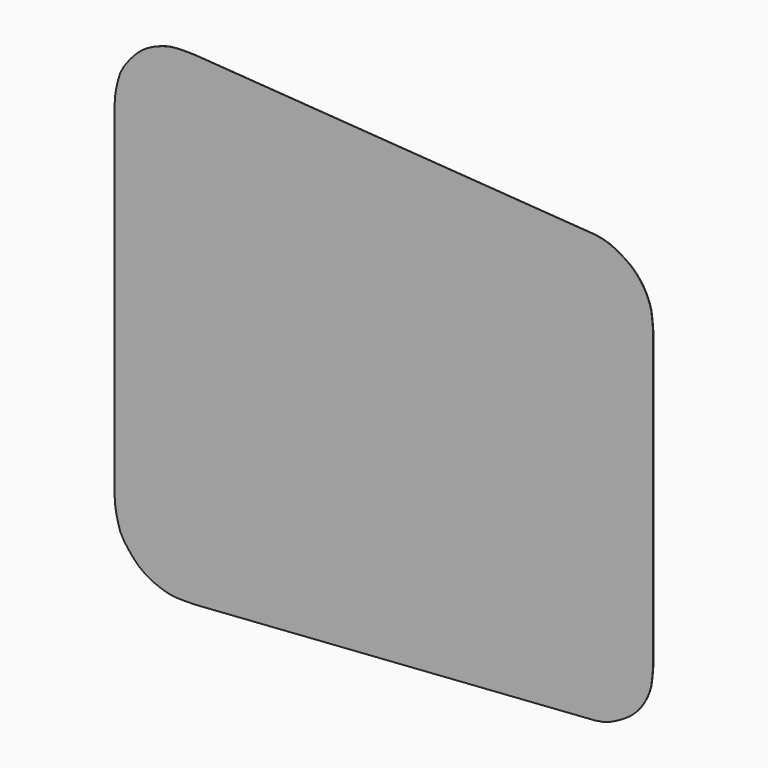
from build123d import *

# Parameters (mm, degrees)
F1_DEPTH = 4


with BuildPart() as f1:
    # F0 (on Front) → F1 (new body)
    with BuildSketch(Plane.XZ):
        Polygon((-3891.7118, 2566.1366), (-3892.4484, 1834.7182), (-3892.4484, 1334.9224), (-3892.4484, 0), (-3892.4484, -1334.897), (-3892.4484, -1834.7182), (-3891.7118, -2566.1112), (-3872.7634, -2692.7556), (-3844.0614, -2817.9014), (-3807.9172, -2929.7122), (-3754.8058, -3026.0544), (-3688.5118, -3115.3608), (-3619.9826, -3196.463), (-3545.1288, -3270.8342), (-3483.0766, -3320.2626), (-3416.4524, -3363.5188), (-3323.2598, -3411.0422), (-3225.6984, -3449.3962), (-3155.7976, -3471.418), (-3084.576, -3487.5216), (-2989.072, -3497.58), (-2892.6282, -3499.9422), (-2730.4238, -3497.9102), (3058.4394, -3091.6372), (3164.4082, -3073.0444), (3266.9226, -3040.8118), (3343.6052, -3005.4804), (3417.8494, -2964.688), (3495.421, -2918.1552), (3568.7762, -2865.882), (3618.7634, -2821.5336), (3665.1184, -2773.0958), (3712.2608, -2716.3014), (3754.3486, -2655.9002), (3788.9434, -2594.7878), (3818.89, -2531.0592), (3846.068, -2461.5648), (3866.0832, -2390.0384), (3882.4916, -2261.997), (3892.4484, -2140.6612), (3892.4484, -1334.897), (3892.4484, -844.423), (3892.4484, 0), (3892.4484, 844.4484), (3892.4484, 1334.9224), (3892.4484, 2140.6866), (3882.4916, 2262.0224), (3866.0832, 2390.0384), (3846.068, 2461.5902), (3818.89, 2531.0846), (3788.9434, 2594.8132), (3754.3486, 2655.9002), (3712.2608, 2716.3014), (3665.1184, 2773.0958), (3618.7634, 2821.5336), (3568.7762, 2865.9074), (3495.421, 2918.1552), (3417.8494, 2964.688), (3343.6052, 3005.5058), (3266.9226, 3040.8372), (3164.4082, 3073.0698), (3058.4394, 3091.6626), (-2730.4238, 3497.9356), (-2892.6282, 3499.9422), (-2989.072, 3497.58), (-3084.576, 3487.5216), (-3155.7976, 3471.418), (-3225.6984, 3449.4216), (-3323.2598, 3411.0422), (-3416.4524, 3363.5442), (-3483.0766, 3320.2626), (-3545.1288, 3270.8596), (-3619.9826, 3196.4884), (-3688.5118, 3115.3862), (-3754.8058, 3026.0798), (-3807.9172, 2929.7122), (-3844.0614, 2817.9268), (-3872.7634, 2692.7556), align=None)
    extrude(amount=F1_DEPTH)


solid = f1.part
